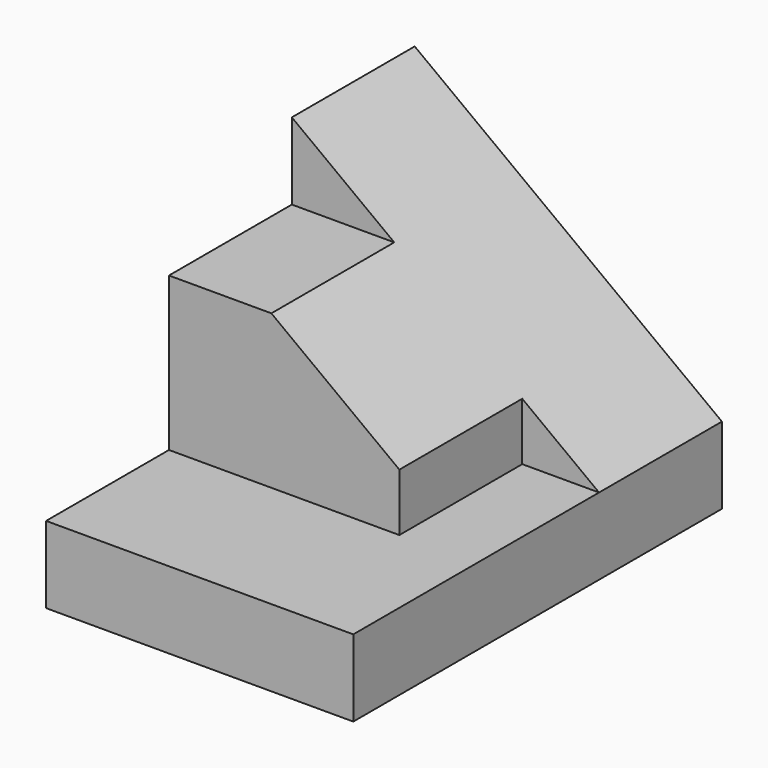
from build123d import *

# Parameters (mm, degrees)
F0_W     = 38.1
F0_H     = 6.35
F1_DEPTH = 25.4
F3_DEPTH = 25.4
F4_W     = 12.7
F4_H     = 6.35
F5_DEPTH = 25.401
F6_W     = 6.35
F6_H     = 12.7
F7_DEPTH = 19.051


with BuildPart() as f1:
    # F0 (on Right) → F1 (new body)
    with BuildSketch(Plane.YZ):
        with Locations((-19.05, 3.175)):
            Rectangle(F0_W, F0_H)
    extrude(amount=F1_DEPTH)

    # F2 (on Front) → F3 (join)
    with BuildSketch(Plane.XZ):
        Polygon((0, 25.4), (0, 6.35), (25.4, 6.35), align=None)
    extrude(amount=F3_DEPTH)

    # F4 (on Right) → F5 (cut, through all)
    with BuildSketch(Plane.YZ):
        with Locations((-19.05, 22.225)):
            Rectangle(F4_W, F4_H)
    extrude(amount=F5_DEPTH, mode=Mode.SUBTRACT)

    # F6 (on face) → F7 (cut, through all)
    with BuildSketch(Plane.XY.offset(6.35)):
        with Locations((22.225, -19.05)):
            Rectangle(F6_W, F6_H)
    extrude(amount=F7_DEPTH, mode=Mode.SUBTRACT)


solid = f1.part
